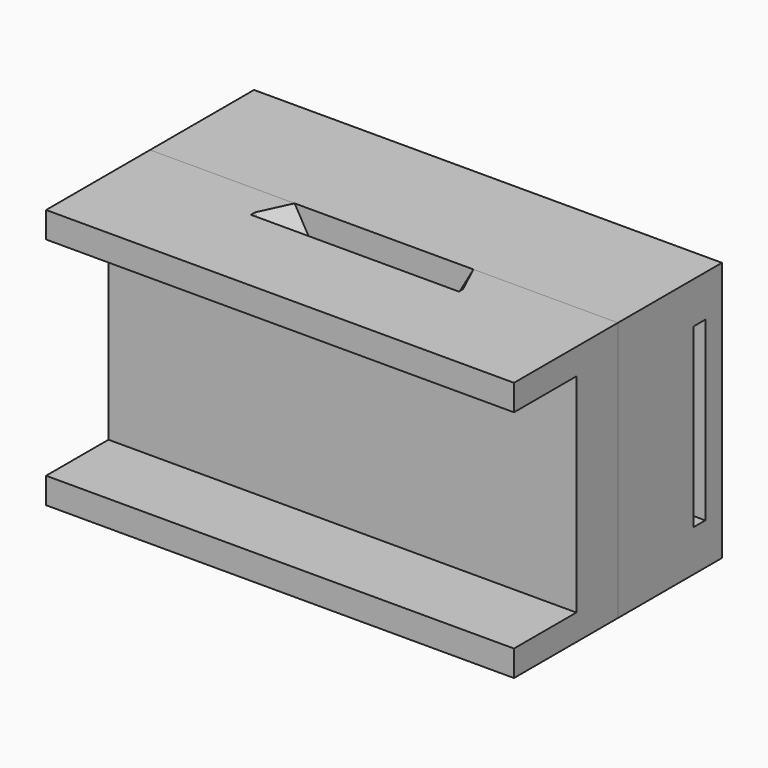
from build123d import *

# Parameters (mm, degrees)
F0_W      = 31.75
F0_H      = 63.5
F1_DEPTH  = 114.3
F2_DEPTH  = 114.3
F5_W      = 3.556
F5_H      = 43.18
F6_DEPTH  = 38.1
F7_START  = 76.2
F7_DEPTH  = 38.1
F11_R     = 8.255
F12_R     = 8.255
F13_DEPTH = 6.35
F15_DEPTH = 4.2672
F16_DEPTH = 25.4
F17_START = 8.89
F17_DEPTH = 16.51
F20_START = -7.62
F19_W     = 114.3
F19_H     = 30.48
F20_DEPTH = 5.08
F22_W     = 12.7
F22_H     = 6.350000307
F22_H_2   = 6.35
F23_DEPTH = 114.3
F21_W     = 19.05
F21_H     = 6.350000307
F21_H_2   = 6.35
F24_DEPTH = 114.3


with BuildPart() as f1:
    # F0 (on Right) → F1 (new body)
    with BuildSketch(Plane.YZ):
        with Locations((20.6751725854, 0)):
            Rectangle(F0_W, F0_H)
    extrude(amount=F1_DEPTH)

    # F5 (on face) → F6 (cut)
    with BuildSketch(Plane.YZ):
        with Locations((29.6921725854, 0)):
            Rectangle(F5_W, F5_H)
    extrude(amount=F6_DEPTH, mode=Mode.SUBTRACT)

    # F5 (on face) → F7 (cut)
    with BuildSketch(Plane.YZ.offset(F7_START)):
        with Locations((29.6921725854, 0)):
            Rectangle(F5_W, F5_H)
    extrude(amount=F7_DEPTH, mode=Mode.SUBTRACT)

    # F11 (on face) + F12 (on face) → F13 (cut)
    with BuildSketch(Plane.XZ.offset(-4.8001725854)):
        with Locations((25.4, 0)):
            Circle(F11_R)
    with BuildSketch(Plane.XZ.offset(-4.8001725854)):
        with Locations((88.9, 0)):
            Circle(F12_R)
    extrude(amount=-F13_DEPTH, mode=Mode.SUBTRACT)

    # F14 (on face) → F15 (cut)
    with BuildSketch(Plane(origin=(0, 36.5501725854, 0), x_dir=(-1, 0, 0), z_dir=(0, 1, 0))):
        Polygon((-83.4644, -3.1382451232), (-83.4644, 3.1382451232), (-88.9, 6.2764902464), (-94.3356, 3.1382451232), (-94.3356, -3.1382451232), (-88.9, -6.2764902464), align=None)
        Polygon((-30.8356, 3.1382451232), (-30.8356, -3.1382451232), (-25.4, -6.2764902464), (-19.9644, -3.1382451232), (-19.9644, 3.1382451232), (-25.4, 6.2764902464), align=None)
    extrude(amount=-F15_DEPTH, mode=Mode.SUBTRACT)


with BuildPart() as f2:
    # F0 (on Right) → F2 (new body)
    with BuildSketch(Plane.YZ):
        Polygon((-26.9498274146, -19.685), (-26.9498274146, -31.75), (4.8001725854, -31.75), (4.8001725854, 31.75), (-26.9498274146, 31.75), (-26.9498274146, 19.685), (-23.3938274146, 19.685), (-7.8998274146, 8.89), (-7.8998274146, -8.89), (-23.3938274146, -19.685), align=None)
        Polygon((-26.9498274146, 19.685), (-26.9498274146, -19.685), (-23.3938274146, -19.685), (-7.8998274146, -8.89), (-7.8998274146, 8.89), (-23.3938274146, 19.685), align=None)
    extrude(amount=F2_DEPTH)


with BuildPart() as f9:
    # F9: sweep along a path in F4
    with BuildLine(Plane.XZ.offset(-4.8001725854)) as f9_path:
        Line((49.53, -31.75), (49.53, 0.9541366414))
        Line((49.53, 0.9541366414), (31.75, 31.75))
    # F8 (on face) → F9 (sweep)
    with BuildSketch(Plane.XY.offset(31.75)):
        Polygon((35.306, 4.8001725854), (31.75, 4.8001725854), (31.75, -2.8198274146), align=None)
    sweep(path=f9_path.line, transition=Transition.RIGHT)


with BuildPart() as f10:
    # F10: sweep along a path in F4
    with BuildLine(Plane.XZ.offset(-4.8001725854)) as f10_path:
        Line((82.55, 31.75), (64.77, 0.9541366414))
        Line((64.77, 0.9541366414), (64.77, -31.75))
    # F8 (on face) → F10 (sweep)
    with BuildSketch(Plane.XY.offset(31.75)):
        Polygon((82.55, -2.8198274146), (82.55, 4.8001725854), (78.994, 4.8001725854), align=None)
    sweep(path=f10_path.line, transition=Transition.RIGHT)


with BuildPart() as f16:
    # F4 (on face) → F16 (new body)
    with BuildSketch(Plane.XZ.offset(-4.8001725854)):
        Polygon((49.53, 0.9541366414), (31.75, 31.75), (0, 31.75), (0, -31.75), (49.53, -31.75), align=None)
    extrude(amount=F16_DEPTH)


with BuildPart() as f16b:
    # F4 (on face) → F16, piece 2 (new body)
    with BuildSketch(Plane.XZ.offset(-4.8001725854)):
        Polygon((114.3, 31.75), (82.55, 31.75), (64.77, 0.9541366414), (64.77, -31.75), (114.3, -31.75), align=None)
    extrude(amount=F16_DEPTH)


with BuildPart() as f17:
    # F4 (on face) → F17 (new body)
    with BuildSketch(Plane.XZ.offset(-4.8001725854).offset(F17_START)):
        Polygon((57.15, -31.75), (57.15, 31.75), (31.75, 31.75), (49.53, 0.9541366414), (49.53, -31.75), align=None)
        Polygon((82.55, 31.75), (57.15, 31.75), (57.15, -31.75), (64.77, -31.75), (64.77, 0.9541366414), align=None)
    extrude(amount=F17_DEPTH)


with BuildPart() as f9_1:
    add(f9.part)

    # F18: union F10, F16, F16b, F17
    add(f10.part)
    add(f16.part)
    add(f16b.part)
    add(f17.part)

    # F19 (on face) → F20 (cut)
    with BuildSketch(Plane.XZ.offset(20.5998274146).offset(F20_START)):
        with Locations((57.15, 0)):
            Rectangle(F19_W, F19_H)
    extrude(amount=-F20_DEPTH, mode=Mode.SUBTRACT)

    # F22 (on face) → F23 (cut)
    with BuildSketch(Plane.YZ):
        Polygon((-7.8998274146, 25.399999693), (-20.5998274146, 25.399999693), (-20.5998274146, 17.7383606557), (-7.8998274146, 8.89), align=None)
        with Locations((-14.2498274146, 28.5749998465)):
            Rectangle(F22_W, F22_H)
        Polygon((-7.8998274146, 8.89), (-20.5998274146, 17.7383606557), (-20.5998274146, -17.7383606557), (-7.8998274146, -8.89), align=None)
        Polygon((-7.8998274146, -8.89), (-20.5998274146, -17.7383606557), (-20.5998274146, -25.4), (-7.8998274146, -25.4), align=None)
        with Locations((-14.2498274146, -28.575)):
            Rectangle(F22_W, F22_H_2)
    extrude(amount=F23_DEPTH, mode=Mode.SUBTRACT)

    # F21 (on face) → F24 (join)
    with BuildSketch(Plane.YZ):
        with Locations((-17.4248274146, 28.5749998465)):
            Rectangle(F21_W, F21_H)
        with Locations((-17.4248274146, -28.575)):
            Rectangle(F21_W, F21_H_2)
    extrude(amount=F24_DEPTH)


solid = Compound([f1.part, f9_1.part])
